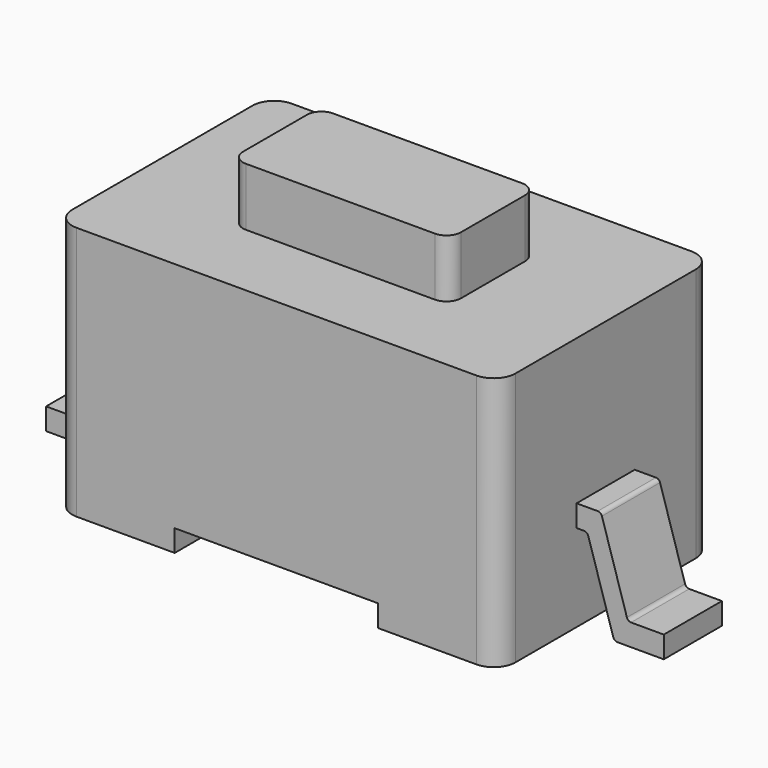
from build123d import *

# Parameters (mm, degrees)
SKETCH001_W  = 6.1
SKETCH001_H  = 3.7
PAD001_DEPTH = 3.5
SKETCH002_W  = 2.8
SKETCH002_H  = 3.7
POCKET_DEPTH = 0.3
FILLET_R     = 0.3
SKETCH003_W  = 3
SKETCH003_H  = 1.5
PAD002_DEPTH = 0.8
FILLET001_R  = 0.2
PAD_DEPTH    = 0.5


with BuildPart() as obj1:
    # Sketch001 → Pad001 (new body)
    with BuildSketch(Plane.XY):
        Rectangle(SKETCH001_W, SKETCH001_H)
    extrude(amount=PAD001_DEPTH)

    # Sketch002 → Pocket (cut)
    with BuildSketch(Plane(origin=(0, 0, 0), x_dir=(1, 0, 0), z_dir=(0, 0, -1))):
        Rectangle(SKETCH002_W, SKETCH002_H)
    extrude(amount=-POCKET_DEPTH, mode=Mode.SUBTRACT)

    # Fillet
    fillet_edges = [obj1.edges().sort_by_distance(p)[0] for p in [
        (-3.05, -1.85, 1.75),
        (-3.05, 1.85, 1.75),
        (3.05, -1.85, 1.75),
        (3.05, 1.85, 1.75),
    ]]
    fillet(fillet_edges, radius=FILLET_R)

    # Sketch003 → Pad002 (new body)
    with BuildSketch(Plane.XY.offset(3.5)):
        Rectangle(SKETCH003_W, SKETCH003_H)
    extrude(amount=PAD002_DEPTH)

    # Fillet001
    fillet001_edges = [obj1.edges().sort_by_distance(p)[0] for p in [
        (1.5, -0.75, 3.9),
        (1.5, 0.75, 3.9),
        (-1.5, 0.75, 3.9),
        (-1.5, -0.75, 3.9),
    ]]
    fillet(fillet001_edges, radius=FILLET001_R)


with BuildPart() as fusion:
    # Sketch → Pad (new body, symmetric)
    with BuildSketch(Plane.XZ):
        with BuildLine():
            Line((4.25, 0), (4.25, 0.3))
            Line((4.25, 0.3), (3.8, 0.3))
            ThreePointArc((3.742663, 0.342323), (3.764367, 0.311727), (3.8, 0.3))
            Line((3.742663, 0.342323), (3.398806, 1.457677))
            ThreePointArc((3.398806, 1.457677), (3.377102, 1.488273), (3.341469, 1.5))
            Line((3.341469, 1.5), (3.05, 1.5))
            Line((3.05, 1.5), (3.05, 1.2))
            Line((3.153657, 1.2), (3.05, 1.2))
            ThreePointArc((3.210994, 1.157677), (3.18929, 1.188273), (3.153657, 1.2))
            Line((3.554852, 0.042323), (3.210994, 1.157677))
            ThreePointArc((3.554852, 0.042323), (3.576556, 0.011727), (3.612189, 0))
            Line((4.25, 0), (3.612189, 0))
        make_face()
        with BuildLine():
            Line((-3.05, 1.5), (-3.05, 1.8))
            Line((-3.434818, 1.8), (-3.05, 1.8))
            ThreePointArc((-3.434818, 1.8), (-3.473385, 1.785963), (-3.493906, 1.750419))
            Line((-3.740912, 0.349581), (-3.493906, 1.750419))
            ThreePointArc((-3.8, 0.3), (-3.761433, 0.314037), (-3.740912, 0.349581))
            Line((-4.25, 0.3), (-3.8, 0.3))
            Line((-4.25, 0), (-4.25, 0.3))
            Line((-4.25, 0), (-3.612189, 0))
            ThreePointArc((-3.612189, 0), (-3.573621, 0.014037), (-3.5531, 0.049581))
            Line((-3.5531, 0.049581), (-3.306095, 1.450419))
            ThreePointArc((-3.247006, 1.5), (-3.285573, 1.485963), (-3.306095, 1.450419))
            Line((-3.247006, 1.5), (-3.05, 1.5))
        make_face()
    extrude(amount=PAD_DEPTH, both=True)

    # Fusion: union obj1
    add(obj1.part)


solid = fusion.part
